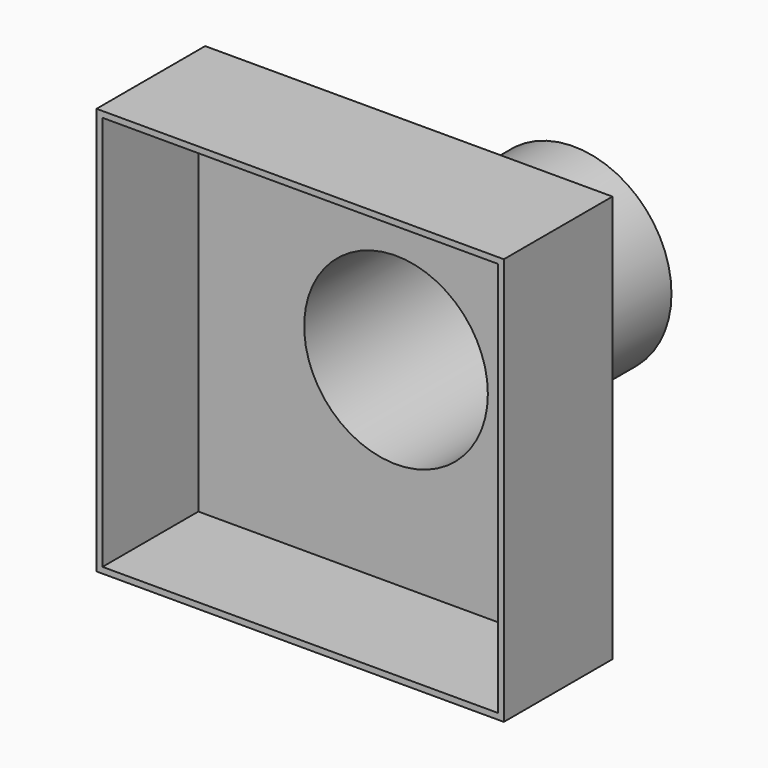
from build123d import *

# Parameters (mm, degrees)
F0_W          = 102
F0_H          = 102
F0_W_2        = 96
F0_H_2        = 96
F1_DEPTH      = 4
F2_W          = 102
F2_H          = 102
F2_W_2        = 99
F2_H_2        = 99
F3_DEPTH      = 30
F3_DEPTH_BACK = 4
F4_R          = 23
F5_DEPTH      = 25
F6_R          = 24.5
F6_R_2        = 23
F7_DEPTH      = 55.6


with BuildPart() as f1:
    # F0 (on Front) → F1 (new body)
    with BuildSketch(Plane.XZ):
        Rectangle(F0_W, F0_H)
        Rectangle(F0_W_2, F0_H_2, mode=Mode.SUBTRACT)
        Rectangle(F0_W_2, F0_H_2)
    extrude(amount=F1_DEPTH)

    # F2 (on face) → F3 (join, two sides)
    with BuildSketch(Plane.XZ.offset(4)) as f3_sk:
        Rectangle(F2_W, F2_H)
        Rectangle(F2_W_2, F2_H_2, mode=Mode.SUBTRACT)
    extrude(amount=F3_DEPTH)
    extrude(f3_sk.sketch, amount=-F3_DEPTH_BACK)

    # F4 (on face) → F5 (cut)
    with BuildSketch(Plane.XZ.offset(4)):
        Circle(F4_R)
    extrude(amount=-F5_DEPTH, mode=Mode.SUBTRACT)

    # F6 (on face) → F7 (join)
    with BuildSketch(Plane.XZ.offset(4)):
        Circle(F6_R)
        Circle(F6_R_2, mode=Mode.SUBTRACT)
    extrude(amount=-F7_DEPTH)


solid = f1.part
